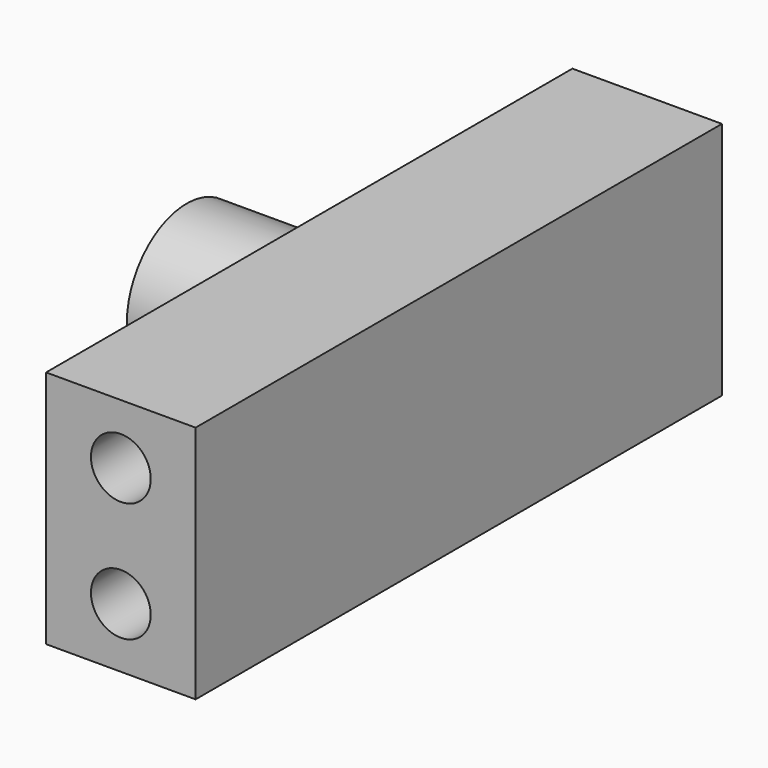
from build123d import *

# Parameters (mm, degrees)
F0_W     = 110
F0_H     = 40
F1_DEPTH = 25
F2_R     = 12.5
F3_DEPTH = 24.5
F4_R     = 5
F5_DEPTH = 25
F6_DEPTH = 25


with BuildPart() as f1:
    # F0 (on Right) → F1 (new body)
    with BuildSketch(Plane.YZ):
        with Locations((0, -4.401192)):
            Rectangle(F0_W, F0_H)
    extrude(amount=F1_DEPTH)

    # F2 (on face) → F3 (join)
    with BuildSketch(Plane(origin=(0, 0, 0), x_dir=(0, -1, 0), z_dir=(-1, 0, 0))):
        with Locations((-5, -4.401192)):
            Circle(F2_R)
    extrude(amount=F3_DEPTH)

    # F4 (on face) → F5 (cut)
    with BuildSketch(Plane.XZ.offset(55)):
        with Locations((12.5, 5.598808)):
            Circle(F4_R)
    extrude(amount=-F5_DEPTH, mode=Mode.SUBTRACT)

    # F4 (on face) → F6 (cut)
    with BuildSketch(Plane.XZ.offset(55)):
        with Locations((12.5, 5.598808)):
            Circle(F4_R)
        with Locations((12.5, -14.401192)):
            Circle(F4_R)
    extrude(amount=-F6_DEPTH, mode=Mode.SUBTRACT)


solid = f1.part
